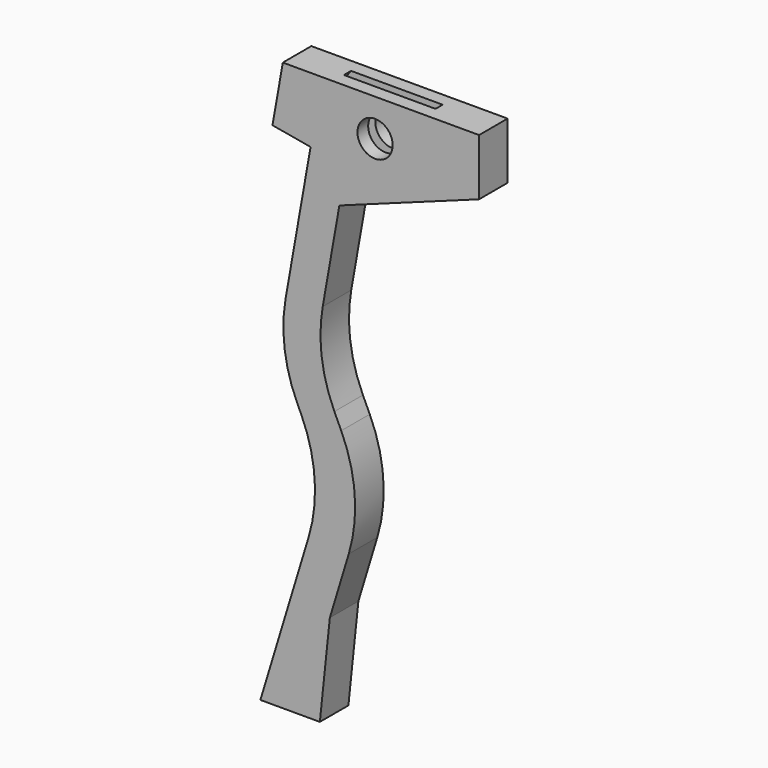
from build123d import *

# Parameters (mm, degrees)
F1_DEPTH = 30
F2_R     = 250
F3_R     = 29.586719
F4_DEPTH = 60.001
F5_R     = 100
F6_DEPTH = 7.5


with BuildPart() as f1:
    # F0 (on Front) → F1 (new body, symmetric)
    with BuildSketch(Plane.XZ):
        Polygon((-79.632452, 408.511814), (-15.619948, 397.224683), (-71.23988, 81.788369), (8.866352, -90), (-100, -448.849714), (0, -448.849714), (16.78813, -289.121331), (76.358088, -92.764401), (0, 70.986047), (-8.866352, 90), (0, 140.283579), (32.809211, 326.353861), (267.732366, 411.858897), (267.732366, 506.99259), (-62.267634, 506.99259), align=None)
    extrude(amount=F1_DEPTH, both=True)

    # F2
    f2_edges = [f1.edges().sort_by_distance(p)[0] for p in [
        (-8.866352, 0, 90),
        (76.358088, 0, -92.764401),
        (-71.23988, 0, 81.788369),
        (8.866352, 0, -90),
    ]]
    fillet(f2_edges, radius=F2_R)

    # F3 (on face) → F4 (cut, through all)
    with BuildSketch(Plane.XZ.offset(30)):
        with Locations((92.837751, 444.634497)):
            Circle(F3_R)
    extrude(amount=-F4_DEPTH, mode=Mode.SUBTRACT)

    # F5 (on Front) → F6 (cut, symmetric)
    with BuildSketch(Plane.XZ):
        with Locations((99.455066, 443.239033)):
            Circle(F5_R)
    extrude(amount=F6_DEPTH, both=True, mode=Mode.SUBTRACT)


solid = f1.part
